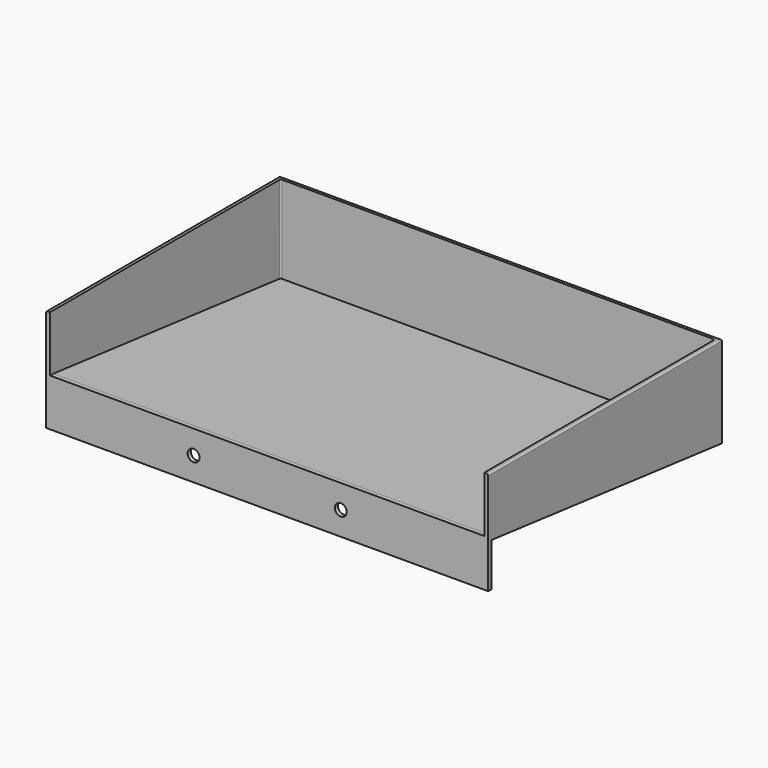
from build123d import *

# Parameters (mm, degrees)
F1_DEPTH = 355.6
F3_DEPTH = 3.175
F6_DEPTH = 3.175
F8_D     = 9.525
F8_DEPTH = 5.08
F8_TIP   = 2.8615986981
F9_R     = 1.27


with BuildPart() as f1:
    # F0 (on Right) → F1 (new body)
    with BuildSketch(Plane.YZ):
        Polygon((118.5154446509, -25.4), (-110.0845239475, 0), (-110.0845239475, -3.175), (121.6904760525, -28.9277813153), (121.6904760525, 44.8288065905), (118.5154760525, 44.8288080101), align=None)
        Polygon((-110.0845239475, -3.175), (-110.0845239475, 0), (-113.2595239475, 0), (-113.2595239475, -38.1), (-110.0845239475, -38.1), align=None)
    extrude(amount=-F1_DEPTH)

    # F2 (on Right) → F3 (join)
    with BuildSketch(Plane.YZ):
        Polygon((-113.2595239475, 44.8288080101), (-113.2595239475, 0), (-110.0845239475, 0), (118.5154446509, -25.4), (118.5154760525, 44.8288080101), align=None)
    extrude(amount=-F3_DEPTH)

    # F5 (on offset) → F6 (join)
    with BuildSketch(Plane.YZ.offset(-355.6)):
        Polygon((118.5154760525, 44.8288080101), (-113.2595239475, 44.8288080101), (-113.2595239475, 0), (-110.0845239475, 0), (118.5154446509, -25.4), align=None)
    extrude(amount=F6_DEPTH)

    # F8
    with Locations(Plane.XZ.offset(113.2595239475)):
        with Locations((-236.982, -19.05), (-118.618, -19.05)):
            Hole(F8_D / 2, depth=F8_DEPTH)
            with Locations((0, 0, -(F8_DEPTH + F8_TIP / 2))):  # 118° drill point
                Cone(0, F8_D / 2, F8_TIP, mode=Mode.SUBTRACT)

    # F9
    f9_edges = [f1.edges().sort_by_distance(p)[0] for p in [
        (-352.425, 118.51546, 9.714404),
        (-3.175, 118.51546, 9.714404),
        (-355.6, 2.627976, 44.828808),
        (0, 2.627976, 44.828808),
        (-177.8, 121.690476, 44.828807),
    ]]
    fillet(f9_edges, radius=F9_R)


solid = f1.part
